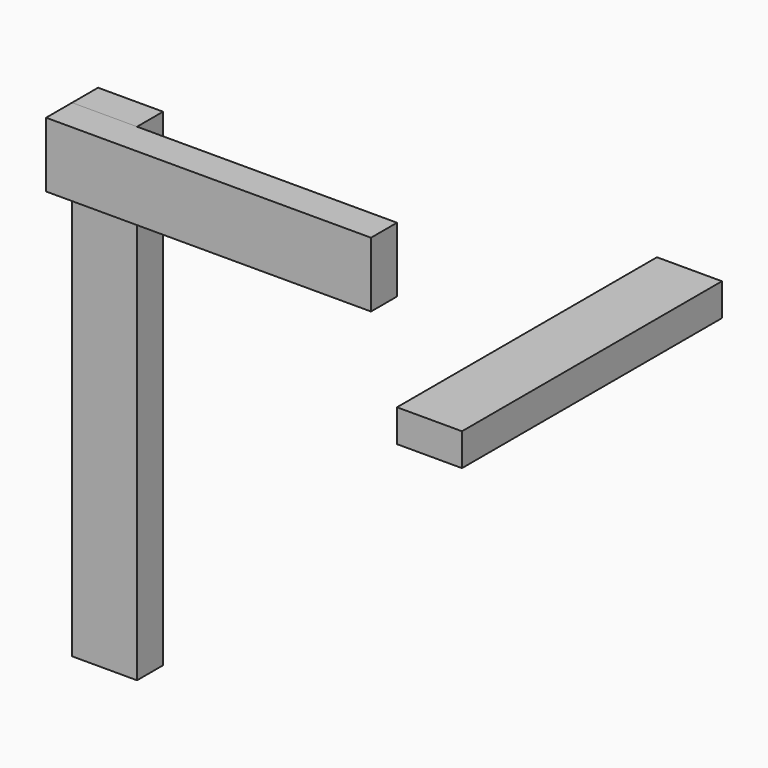
from build123d import *

# Parameters (mm, degrees)
F0_W     = 20
F0_H     = 10
F3_DEPTH = 150
F1_W     = 10
F1_H     = 20
F4_DEPTH = 100
F2_W     = 20
F2_H     = 10
F5_DEPTH = 100


with BuildPart() as f3:
    # F0 (on Top) → F3 (new body, through all)
    with BuildSketch(Plane.XY):
        with Locations((10, 5)):
            Rectangle(F0_W, F0_H)
    extrude(amount=F3_DEPTH)


with BuildPart() as f4:
    # F1 (on Right) → F4 (new body, through all)
    with BuildSketch(Plane.YZ):
        with Locations((-5, 140)):
            Rectangle(F1_W, F1_H)
    extrude(amount=F4_DEPTH)


with BuildPart() as f5:
    # F2 (on Front) → F5 (new body, through all)
    with BuildSketch(Plane.XZ):
        with Locations((110, 95)):
            Rectangle(F2_W, F2_H)
    extrude(amount=-F5_DEPTH)


solid = Compound([f3.part, f4.part, f5.part])
